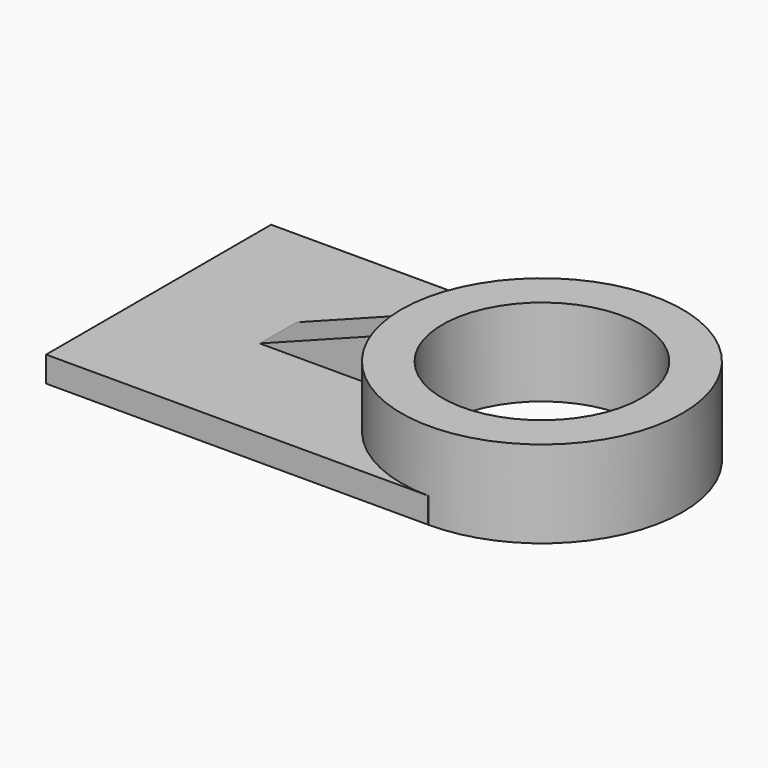
from build123d import *

# Parameters (mm, degrees)
F0_W      = 121.4898377657
F0_H      = 89.4121006131
F1_DEPTH  = 8.128
F2_R      = 44.6973060351
F3_DEPTH  = 27.686
F4_R      = 31.6381794564
F5_DEPTH  = 71.12
F7_DEPTH  = 12.7
F9_DEPTH  = 15.24
F11_DEPTH = 25.4


with BuildPart() as f1:
    # F0 (on Top) → F1 (new body)
    with BuildSketch(Plane.XY):
        Rectangle(F0_W, F0_H)
    extrude(amount=F1_DEPTH)

    # F2 (on Top) → F3 (join)
    with BuildSketch(Plane.XY):
        with Locations((61.1136257648, 0)):
            Circle(F2_R)
    extrude(amount=F3_DEPTH)

    # F4 (on face) → F5 (cut)
    with BuildSketch(Plane.XY.offset(27.686)):
        with Locations((61.1136257648, 0)):
            Circle(F4_R)
    extrude(amount=-F5_DEPTH, mode=Mode.SUBTRACT)

    # F6 (on face) → F7 (join)
    with BuildSketch(Plane.XY.offset(8.128)):
        with BuildLine():
            Line((17.315906262, -5.9659900144), (17.315906262, 8.9223838266))
            ThreePointArc((17.315906262, 8.9223838266), (16.4414678757, 1.4991585393), (16.8162654603, -5.9659900144))
            Line((16.8162654604, -5.9659900144), (17.315906262, -5.9659900144))
        make_face()
    extrude(amount=F7_DEPTH)

    # F8 (on face) → F9 (join)
    with BuildSketch(Plane.XY.offset(8.128)):
        with BuildLine():
            ThreePointArc((16.9541946333, -6.9133066572), (16.4178062292, 0.3645309758), (17.0728288242, 7.6326516773))
            Line((17.0728288242, 7.6326516773), (-23.0794530362, 7.6326516773))
            Line((-23.0794530362, 7.6326516773), (-23.0794530362, -6.9133066572))
            Line((-23.0794530362, -6.9133066572), (16.9541946333, -6.9133066572))
        make_face()
    extrude(amount=F9_DEPTH)

    # F10 (on face) → F11 (cut)
    with BuildSketch(Plane.XZ.offset(6.9133066572)):
        Polygon((-23.0794530362, 23.368), (-23.0794530362, 8.128), (16.9541946333, 23.368), align=None)
    extrude(amount=-F11_DEPTH, mode=Mode.SUBTRACT)


solid = f1.part
